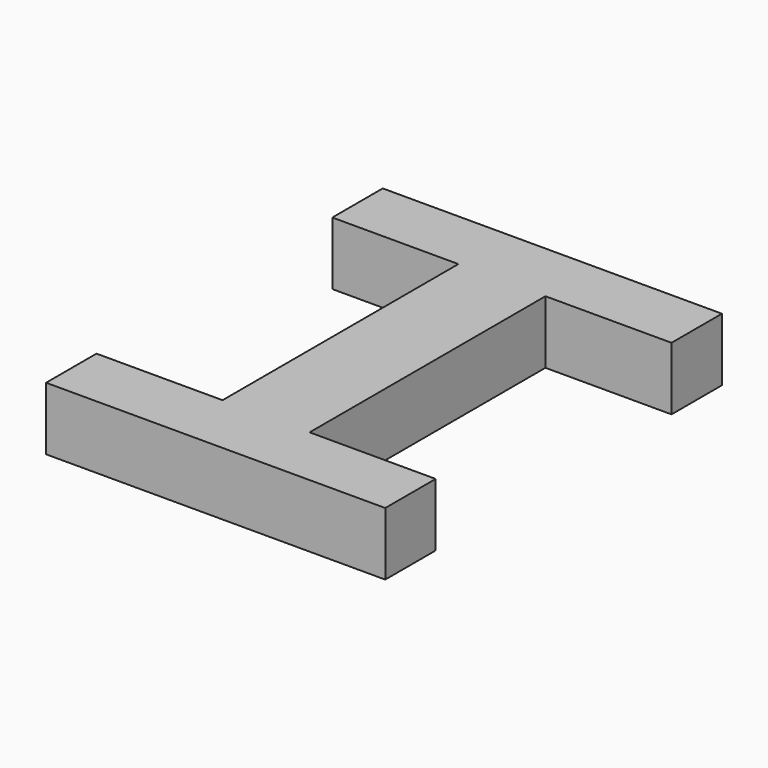
from build123d import *

# Parameters (mm, degrees)
F0_W     = 6.9073396735
F0_H     = 33.3854667842
F1_DEPTH = 5
F3_W     = 10
F3_H     = 5
F2_W     = 10
F2_H     = 5
F4_DEPTH = 5


with BuildPart() as f1:
    # F0 (on Top) → F1 (new body)
    with BuildSketch(Plane.XY):
        with Locations((3.4536698367, 16.6927333921)):
            Rectangle(F0_W, F0_H)
    extrude(amount=F1_DEPTH)

    # F3 (on face) + F2 (on Top) → F4 (join)
    with BuildSketch(Plane(origin=(0, 0, 0), x_dir=(1, 0, 0), z_dir=(0, 0, -1))):
        Polygon((6.9073396735, -5), (6.9073396735, 0), (0, 0), (0, -5), (0, -28.3854667842), (0, -33.3854667842), (6.9073396735, -33.3854667842), (6.9073396735, -28.3854667842), align=None)
        with Locations((11.9073396735, -2.5)):
            Rectangle(F3_W, F3_H)
        with Locations((-5, -2.5)):
            Rectangle(F3_W, F3_H)
        with Locations((11.9073396735, -30.8854667842)):
            Rectangle(F3_W, F3_H)
        with Locations((-5, -30.8854667842)):
            Rectangle(F3_W, F3_H)
    with BuildSketch(Plane.XY):
        with Locations((-5, 30.8854667842)):
            Rectangle(F2_W, F2_H)
    extrude(amount=-F4_DEPTH, dir=(0, 0, -1))


solid = f1.part
